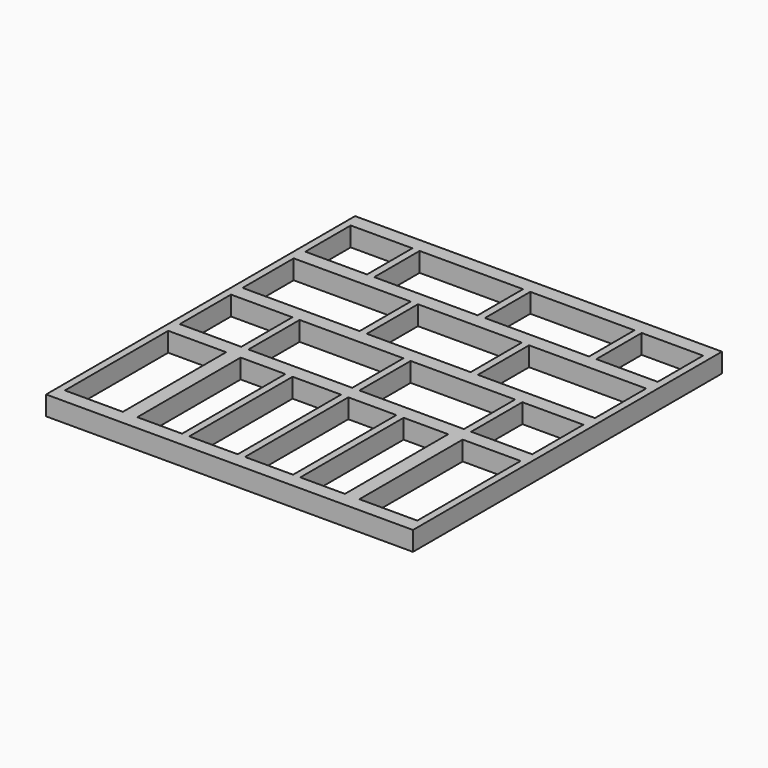
from build123d import *

# Parameters (mm, degrees)
F0_W     = 1854.2
F0_H     = 38.1
F0_W_2   = 38.1
F0_H_2   = 298.45
F0_H_3   = 336.55
F0_H_4   = 679.45
F1_DEPTH = 101.6


with BuildPart() as f1:
    # F0 (on Top) → F1 (new body)
    with BuildSketch(Plane.XY):
        with Locations((965.2, 2012.95)):
            Rectangle(F0_W, F0_H)
        Polygon((1892.3, 1955.8), (1892.3, 1993.9), (38.1, 1993.9), (38.1, 1955.8), (362.600505, 1955.8), (400.700505, 1955.8), (945.00792, 1955.8), (983.10792, 1955.8), (1531.078815, 1955.8), (1569.178815, 1955.8), align=None)
        Polygon((0, 0), (38.1, 0), (38.1, 38.1), (38.1, 76.2), (38.1, 755.65), (38.1, 793.75), (38.1, 831.85), (38.1, 1168.4), (38.1, 1206.5), (38.1, 1244.6), (38.1, 1581.15), (38.1, 1619.25), (38.1, 1657.35), (38.1, 1955.8), (38.1, 1993.9), (38.1, 2032), (0, 2032), align=None)
        with Locations((381.650505, 1806.575)):
            Rectangle(F0_W_2, F0_H_2)
        Polygon((1892.3, 1619.25), (1892.3, 1657.35), (1569.178815, 1657.35), (1531.078815, 1657.35), (983.10792, 1657.35), (945.00792, 1657.35), (400.700505, 1657.35), (362.600505, 1657.35), (38.1, 1657.35), (38.1, 1619.25), align=None)
        with Locations((964.05792, 1806.575)):
            Rectangle(F0_W_2, F0_H_2)
        with Locations((1550.128815, 1806.575)):
            Rectangle(F0_W_2, F0_H_2)
        Polygon((1892.3, 38.1), (1892.3, 0), (1930.4, 0), (1930.4, 2032), (1892.3, 2032), (1892.3, 1993.9), (1892.3, 1955.8), (1892.3, 1657.35), (1892.3, 1619.25), (1892.3, 1581.15), (1892.3, 1244.6), (1892.3, 1206.5), (1892.3, 1168.4), (1892.3, 831.85), (1892.3, 793.75), (1892.3, 755.65), (1892.3, 76.2), align=None)
        with Locations((1257.2695, 1412.875)):
            Rectangle(F0_W_2, F0_H_3)
        with Locations((672.729013, 1412.875)):
            Rectangle(F0_W_2, F0_H_3)
        Polygon((38.1, 1206.5), (1892.3, 1206.5), (1892.3, 1244.6), (1276.3195, 1244.6), (1238.2195, 1244.6), (691.779013, 1244.6), (653.679013, 1244.6), (38.1, 1244.6), align=None)
        Polygon((1571.134563, 1168.4), (1892.3, 1168.4), (1892.3, 1206.5), (38.1, 1206.5), (38.1, 1168.4), (361.264458, 1168.4), (399.364458, 1168.4), (945.316911, 1168.4), (983.416911, 1168.4), (1533.034563, 1168.4), align=None)
        with Locations((380.314458, 1000.125)):
            Rectangle(F0_W_2, F0_H_3)
        with Locations((964.366911, 1000.125)):
            Rectangle(F0_W_2, F0_H_3)
        with Locations((1552.084563, 1000.125)):
            Rectangle(F0_W_2, F0_H_3)
        Polygon((1587.552901, 755.65), (1892.3, 755.65), (1892.3, 793.75), (38.1, 793.75), (38.1, 755.65), (342.952732, 755.65), (381.052732, 755.65), (419.152732, 755.65), (654.369056, 755.65), (692.469056, 755.65), (947.420001, 755.65), (985.520001, 755.65), (1238.64913, 755.65), (1276.74913, 755.65), (1511.352901, 755.65), (1549.452901, 755.65), align=None)
        with Locations((1568.502901, 415.925)):
            Rectangle(F0_W_2, F0_H_4)
        with Locations((1530.402901, 415.925)):
            Rectangle(F0_W_2, F0_H_4)
        with Locations((1257.69913, 415.925)):
            Rectangle(F0_W_2, F0_H_4)
        with Locations((966.470001, 415.925)):
            Rectangle(F0_W_2, F0_H_4)
        with Locations((673.419056, 415.925)):
            Rectangle(F0_W_2, F0_H_4)
        with Locations((400.102732, 415.925)):
            Rectangle(F0_W_2, F0_H_4)
        with Locations((362.002732, 415.925)):
            Rectangle(F0_W_2, F0_H_4)
        Polygon((38.1, 38.1), (1892.3, 38.1), (1892.3, 76.2), (1587.552901, 76.2), (1549.452901, 76.2), (1511.352901, 76.2), (1276.74913, 76.2), (1238.64913, 76.2), (985.520001, 76.2), (947.420001, 76.2), (692.469056, 76.2), (654.369056, 76.2), (419.152732, 76.2), (381.052732, 76.2), (342.952732, 76.2), (38.1, 76.2), align=None)
        with Locations((965.2, 19.05)):
            Rectangle(F0_W, F0_H)
        Polygon((38.1, 793.75), (1892.3, 793.75), (1892.3, 831.85), (1571.134563, 831.85), (1533.034563, 831.85), (983.416911, 831.85), (945.316911, 831.85), (399.364458, 831.85), (361.264458, 831.85), (38.1, 831.85), align=None)
        Polygon((1892.3, 1581.15), (1892.3, 1619.25), (38.1, 1619.25), (38.1, 1581.15), (653.679013, 1581.15), (691.779013, 1581.15), (1238.2195, 1581.15), (1276.3195, 1581.15), align=None)
    extrude(amount=-F1_DEPTH)


solid = f1.part
